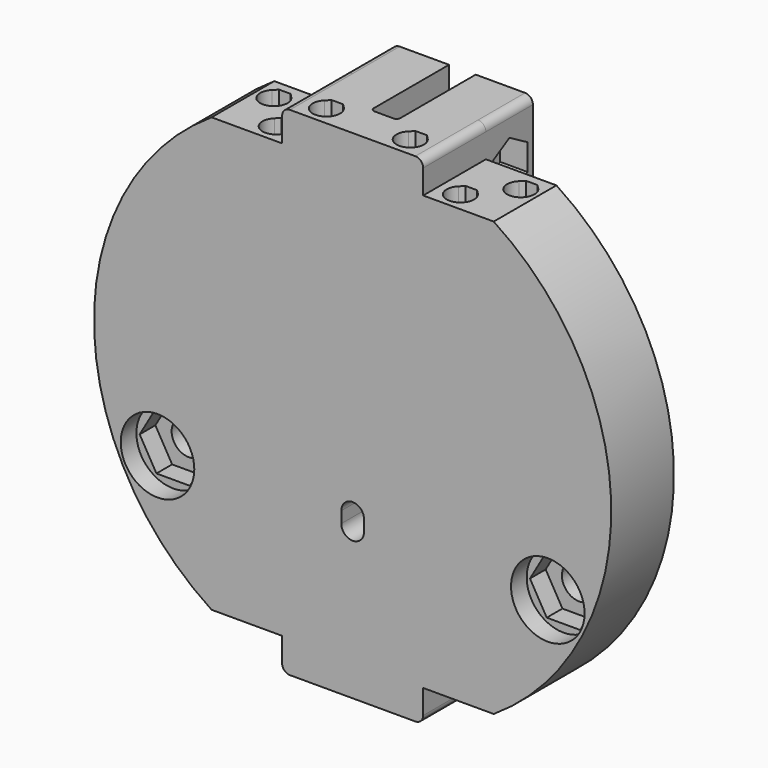
from build123d import *

# Parameters (mm, degrees)
PAD012_DEPTH    = 10
SKETCH027_W     = 3.4
SKETCH027_H     = 5
POCKET_DEPTH    = 30
POCKET012_DEPTH = 247.759716
SKETCH029_R     = 11
POCKET013_DEPTH = 3.5
POCKET014_DEPTH = 5
SKETCH031_R     = 2.2
POCKET015_DEPTH = 5.001
POCKET016_DEPTH = 243.669334
FILLET_R        = 0.5
FILLET001_R     = 1
FILLET002_R     = 1
SKETCH048_R     = 3.75
PAD019_DEPTH    = 5
SKETCH049_R     = 4.693549
POCKET026_DEPTH = 2.5
FILLET012_R     = 0.5
PAD020_DEPTH    = 5
FILLET013_R     = 1
PAD021_DEPTH    = 7.5
POCKET029_DEPTH = 5
POCKET030_DEPTH = 18
SKETCH055_W     = 3.4
SKETCH055_H     = 44.110421
POCKET031_DEPTH = 10
POCKET032_DEPTH = 3.5
SKETCH057_R     = 3.2
POCKET033_DEPTH = 3.5
FILLET018_R     = 4
FILLET019_R     = 1


with BuildPart() as part:
    # Sketch026 (on ShapeBinder) → Pad012 (new body)
    with BuildSketch(Plane.XZ.offset(47.5)):
        with BuildLine():
            ThreePointArc((18, -27.658633), (33, 0), (18, 27.658633))
            Line((18, 27.658633), (9, 27.658633))
            Line((9, 31.749016), (9, 27.658633))
            Line((-9, 31.749016), (9, 31.749016))
            Line((-9, 31.749016), (-9, 27.658633))
            Line((-18, 27.658633), (-9, 27.658633))
            ThreePointArc((-18, 27.658633), (-33, 0), (-18, -27.658633))
            Line((-18, -27.658633), (-9, -27.658633))
            Line((-9, -31.749016), (-9, -27.658633))
            Line((-9, -31.749016), (9, -31.749016))
            Line((9, -31.749016), (9, -27.658633))
            Line((18, -27.658633), (9, -27.658633))
        make_face()
        with BuildLine():
            ThreePointArc((-1.45, -12.6), (0, -14.05), (1.45, -12.6))
            Line((1.45, -12.6), (1.45, -11.15))
            ThreePointArc((1.45, -11.15), (0, -9.7), (-1.45, -11.15))
            Line((-1.45, -12.6), (-1.45, -11.15))
        make_face(mode=Mode.SUBTRACT)
    extrude(amount=PAD012_DEPTH)

    # Sketch027 (on Face4 of Pad012) → Pocket (cut)
    with BuildSketch(Plane(origin=(0, -4.5, 31.749016), x_dir=(1, 0, 0), z_dir=(0, 0, 1))):
        with Locations((0, -45.5)):
            Rectangle(SKETCH027_W, SKETCH027_H)
    extrude(amount=-POCKET_DEPTH, mode=Mode.SUBTRACT)

    # Sketch028 (on Face14 of Pocket) → Pocket012 (cut, through all)
    with BuildSketch(Plane(origin=(0, -4.5, 31.749016), x_dir=(1, 0, 0), z_dir=(0, 0, 1))):
        with BuildLine():
            Line((-6.074874, -48.75), (-4.625126, -48.75))
            Line((-4.112563, -49.262563), (-4.625126, -48.75))
            ThreePointArc((-6.587437, -49.262563), (-5.35, -52.25), (-4.112563, -49.262563))
            Line((-6.074874, -48.75), (-6.587437, -49.262563))
        make_face()
        with BuildLine():
            Line((4.625126, -48.75), (6.074874, -48.75))
            Line((6.587437, -49.262563), (6.074874, -48.75))
            ThreePointArc((4.112563, -49.262563), (5.35, -52.25), (6.587437, -49.262563))
            Line((4.625126, -48.75), (4.112563, -49.262563))
        make_face()
    extrude(amount=-POCKET012_DEPTH, mode=Mode.SUBTRACT)

    # Sketch029 (on Face4 of Pocket012) → Pocket013 (cut)
    with BuildSketch(Plane(origin=(0, -47.5, 0), x_dir=(-1, 0, 0), z_dir=(0, 1, 0))):
        with Locations((0, -12.6)):
            Circle(SKETCH029_R)
    extrude(amount=-POCKET013_DEPTH, mode=Mode.SUBTRACT)

    # Sketch030 (on Face5 of Pocket013) → Pocket014 (cut)
    with BuildSketch(Plane.XZ.offset(57.5)):
        Polygon((27.036196, -16.3), (29.172392, -12.6), (27.036196, -8.9), (22.763804, -8.9), (20.627608, -12.6), (22.763804, -16.3), align=None)
        Polygon((-22.763804, -16.3), (-20.627608, -12.6), (-22.763804, -8.9), (-27.036196, -8.9), (-29.172392, -12.6), (-27.036196, -16.3), align=None)
    extrude(amount=-POCKET014_DEPTH, mode=Mode.SUBTRACT)

    # Sketch031 (on Face46 of Pocket014) → Pocket015 (cut, through all)
    with BuildSketch(Plane.XZ.offset(52.5)):
        with Locations((24.9, -12.6)):
            Circle(SKETCH031_R)
        with Locations((-24.9, -12.6)):
            Circle(SKETCH031_R)
    extrude(amount=-POCKET015_DEPTH, mode=Mode.SUBTRACT)

    # Sketch032 (on Face3 of Pocket015) → Pocket016 (cut, through all)
    with BuildSketch(Plane(origin=(0, -4.5, 27.658633), x_dir=(1, 0, 0), z_dir=(0, 0, 1))):
        with BuildLine():
            Line((11.025126, -48.75), (12.474874, -48.75))
            Line((12.474874, -48.75), (12.987437, -49.262563))
            ThreePointArc((10.512563, -49.262563), (11.75, -52.25), (12.987437, -49.262563))
            Line((11.025126, -48.75), (10.512563, -49.262563))
        make_face()
        with BuildLine():
            Line((15.025126, -44.125), (16.474874, -44.125))
            Line((16.474874, -44.125), (16.987437, -44.637563))
            ThreePointArc((14.512563, -44.637563), (15.75, -47.625), (16.987437, -44.637563))
            Line((15.025126, -44.125), (14.512563, -44.637563))
        make_face()
    pocket016 = extrude(amount=-POCKET016_DEPTH, mode=Mode.SUBTRACT)

    # Mirrored: Pocket016 across Sketch032 V_Axis
    add(pocket016.mirror(Plane(origin=(0, -4.5, 27.658633), x_dir=(0, 0, 1), z_dir=(1, 0, 0))), mode=Mode.SUBTRACT)

    # Fillet
    fillet_edges = [part.edges().sort_by_distance(p)[0] for p in [
        (-1.7, -52.5, 16.749016),
        (1.7, -52.5, 16.749016),
    ]]
    fillet(fillet_edges, radius=FILLET_R)

    # Fillet001
    fillet001_edges = [part.edges().sort_by_distance(p)[0] for p in [
        (-9, -52.5, 31.749016),
        (9, -52.5, 31.749016),
    ]]
    fillet(fillet001_edges, radius=FILLET001_R)

    # Fillet002
    fillet002_edges = [part.edges().sort_by_distance(p)[0] for p in [
        (9, -52.5, -31.749016),
        (-9, -52.5, -31.749016),
    ]]
    fillet(fillet002_edges, radius=FILLET002_R)

    # Sketch048 (on Face53 of Fillet002) → Pad019 (join)
    with BuildSketch(Plane(origin=(0, -51, 0), x_dir=(-1, 0, 0), z_dir=(0, 1, 0))):
        with Locations((0, -12.6)):
            Circle(SKETCH048_R)
        with BuildLine():
            ThreePointArc((1.45, -11.15), (0, -9.7), (-1.45, -11.15))
            Line((-1.45, -11.15), (-1.45, -12.6))
            ThreePointArc((-1.45, -12.6), (0, -14.05), (1.45, -12.6))
            Line((1.45, -11.15), (1.45, -12.6))
        make_face(mode=Mode.SUBTRACT)
    extrude(amount=PAD019_DEPTH)

    # Sketch049 (on Face24 of Pad019) → Pocket026 (cut)
    with BuildSketch(Plane.XZ.offset(57.5)):
        with Locations((-24.9, -12.6)):
            Circle(SKETCH049_R)
        with Locations((24.9, -12.6)):
            Circle(SKETCH049_R)
    extrude(amount=-POCKET026_DEPTH, mode=Mode.SUBTRACT)

    # Fillet012
    fillet012_edges = [part.edges().sort_by_distance(p)[0] for p in [
        (3.75, -51, -12.6),
    ]]
    fillet(fillet012_edges, radius=FILLET012_R)

    # Sketch050 (on Face76 of Pad019) → Pad020 (join)
    with BuildSketch(Plane(origin=(0, -46, 0), x_dir=(-1, 0, 0), z_dir=(0, 1, 0))):
        with BuildLine():
            ThreePointArc((-1.45, -9.141677), (0, -16.35), (1.45, -9.141677))
            Line((1.45, -12.6), (1.45, -9.141677))
            ThreePointArc((-1.45, -12.6), (0, -14.05), (1.45, -12.6))
            Line((-1.45, -12.6), (-1.45, -9.141677))
        make_face()
    extrude(amount=PAD020_DEPTH)

    # Fillet013
    fillet013_edges = [part.edges().sort_by_distance(p)[0] for p in [
        (0, -41, -16.35),
    ]]
    fillet(fillet013_edges, radius=FILLET013_R)

    # Sketch053 (on Face39 of Fillet013) → Pad021 (join)
    with BuildSketch(Plane(origin=(0, -47.5, 0), x_dir=(-1, 0, 0), z_dir=(0, 1, 0))):
        with BuildLine():
            Line((-8, 31.749016), (8, 31.749016))
            ThreePointArc((9, 30.749016), (8.707107, 31.456123), (8, 31.749016))
            Line((9, 30.749016), (9, 19.658633))
            Line((9, 19.658633), (-9, 19.658633))
            Line((-9, 19.658633), (-9, 30.749016))
            ThreePointArc((-8, 31.749016), (-8.707107, 31.456123), (-9, 30.749016))
        make_face()
    extrude(amount=PAD021_DEPTH)

    # Sketch030 (on Face5 of Pocket013) → Pocket029 (cut)
    with BuildSketch(Plane.XZ.offset(57.5)):
        Polygon((27.036196, -16.3), (29.172392, -12.6), (27.036196, -8.9), (22.763804, -8.9), (20.627608, -12.6), (22.763804, -16.3), align=None)
        Polygon((-22.763804, -16.3), (-20.627608, -12.6), (-22.763804, -8.9), (-27.036196, -8.9), (-29.172392, -12.6), (-27.036196, -16.3), align=None)
    extrude(amount=-POCKET029_DEPTH, mode=Mode.SUBTRACT)

    # Sketch054 (on Face56 of Pocket029) → Pocket030 (cut)
    with BuildSketch(Plane(origin=(9, -4.5, 0), x_dir=(0, 1, 0), z_dir=(1, 0, 0))):
        with BuildLine():
            ThreePointArc((-38.012563, 26.441261), (-41, 25.203825), (-38.012563, 23.966388))
            Line((-38.012563, 23.966388), (-37.5, 24.478951))
            Line((-37.5, 25.928698), (-37.5, 24.478951))
            Line((-37.5, 25.928698), (-38.012563, 26.441261))
        make_face()
    extrude(amount=-POCKET030_DEPTH, mode=Mode.SUBTRACT)

    # Sketch055 (on Face39 of Pocket030) → Pocket031 (cut)
    with BuildSketch(Plane(origin=(0, -47.5, 0), x_dir=(-1, 0, 0), z_dir=(0, 1, 0))):
        with Locations((0, 23.804226)):
            Rectangle(SKETCH055_W, SKETCH055_H)
    extrude(amount=POCKET031_DEPTH, mode=Mode.SUBTRACT)

    # Sketch056 (on Face56 of Pocket031) → Pocket032 (cut)
    with BuildSketch(Plane(origin=(9, -4.5, 0), x_dir=(0, 1, 0), z_dir=(1, 0, 0))):
        Polygon((-36.35, 23.529509), (-36.35, 26.87814), (-39.25, 28.552456), (-42.15, 26.87814), (-42.15, 23.529509), (-39.25, 21.855193), align=None)
    extrude(amount=-POCKET032_DEPTH, mode=Mode.SUBTRACT)

    # Sketch057 (on Face74 of Pocket032) → Pocket033 (cut)
    with BuildSketch(Plane(origin=(-9, -4.5, 0), x_dir=(0, -1, 0), z_dir=(-1, 0, 0))):
        with Locations((39.25, 25.203825)):
            Circle(SKETCH057_R)
    extrude(amount=-POCKET033_DEPTH, mode=Mode.SUBTRACT)

    # Fillet018
    fillet018_edges = [part.edges().sort_by_distance(p)[0] for p in [
        (-5.35, -47.5, 19.658633),
        (5.35, -47.5, 19.658633),
    ]]
    fillet(fillet018_edges, radius=FILLET018_R)

    # Fillet019
    fillet019_edges = [part.edges().sort_by_distance(p)[0] for p in [
        (5.35, -40, 19.658633),
        (-5.35, -40, 19.658633),
    ]]
    fillet(fillet019_edges, radius=FILLET019_R)


solid = part.part
